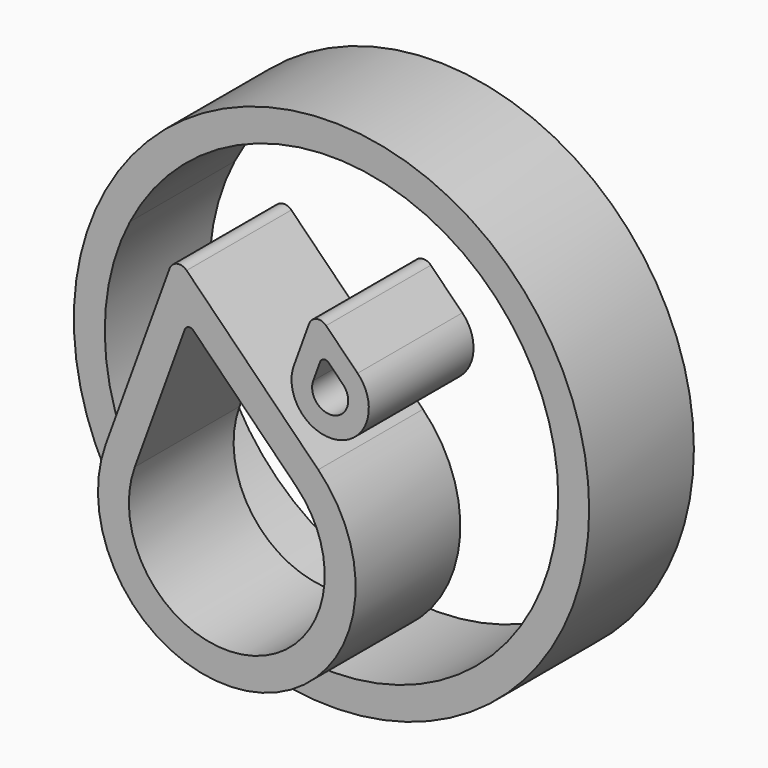
from build123d import *

# Parameters (mm, degrees)
F0_R      = 50
F1_DEPTH  = 25.4
F2_R      = 1
F3_R      = 2
F4_R      = 1
F5_R      = 2
F8_DEPTH  = 25.4
F9_R      = 1
F10_R     = 2
F11_R     = 4
F14_DEPTH = 25.4
F15_R     = 1
F15_2_R   = 1
F16_R     = 2
F16_2_R   = 2


with BuildPart() as f1:
    # F0 (on Front) → F1 (new body)
    with BuildSketch(Plane.XZ):
        Circle(F0_R)
        with BuildLine():
            ThreePointArc((-39.1111111111, 20.1574052808), (10.3708994574, 42.7603138955), (44, 0))
            ThreePointArc((44, 0), (-10.3708994574, -42.7603138955), (-39.1111111111, 20.1574052808))
        make_face(mode=Mode.SUBTRACT)
    extrude(amount=F1_DEPTH)


with BuildPart() as f1b:
    # F0 (on Front) → F1, piece 2 (new body)
    with BuildSketch(Plane.XZ):
        with BuildLine():
            ThreePointArc((0, 16.4924225025), (-16, 26.2462112512), (-32, 16.4924225025))
            Line((-32, 16.4924225025), (-30.2222222222, 15.5761768079))
            Line((-30.2222222222, 15.5761768079), (-34, 8.2462112512))
            ThreePointArc((-34, 8.2462112512), (-33.0849981905, 2.5802747153), (-30.4330181301, -2.5096238003))
            Line((-30.4330181301, -2.5096238003), (0, -43.3470204617))
            Line((0, -43.3470204617), (30.4330181301, -2.5096238003))
            ThreePointArc((30.4330181301, -2.5096238003), (25.5332732557, 23.5143709646), (0, 16.4924225025))
        make_face()
        with BuildLine():
            ThreePointArc((-28.829349449, -1.3145310168), (-31.9458736097, 6.9312531437), (-30.2222222222, 15.5761768079))
            ThreePointArc((-30.2222222222, 15.5761768079), (-12.2287638337, 23.7954163042), (0, 8.2462112512))
            ThreePointArc((0, 8.2462112512), (21.0363880319, 23.4328763095), (28.829349449, -1.3145310168))
            Line((28.829349449, -1.3145310168), (0, -40))
            Line((0, -40), (-28.829349449, -1.3145310168))
        make_face(mode=Mode.SUBTRACT)
        with BuildLine():
            Line((-30.2222222222, 15.5761768079), (-32, 16.4924225025))
            ThreePointArc((-32, 16.4924225025), (-33.4928556845, 12.4888519384), (-34, 8.2462112512))
            Line((-34, 8.2462112512), (-30.2222222222, 15.5761768079))
        make_face()
    extrude(amount=F1_DEPTH)

    # F2
    f2_edges = [f1b.edges().sort_by_distance(p)[0] for p in [
        (0, -12.7, 16.492423),
    ]]
    fillet(f2_edges, radius=F2_R)

    # F3
    f3_edges = [f1b.edges().sort_by_distance(p)[0] for p in [
        (0, -12.7, 8.246211),
    ]]
    fillet(f3_edges, radius=F3_R)

    # F4
    f4_edges = [f1b.edges().sort_by_distance(p)[0] for p in [
        (0, -12.7, -40),
    ]]
    fillet(f4_edges, radius=F4_R)

    # F5
    f5_edges = [f1b.edges().sort_by_distance(p)[0] for p in [
        (0, -12.7, -43.34702),
    ]]
    fillet(f5_edges, radius=F5_R)


with BuildPart() as f8:
    # F7 (on face) → F8 (new body)
    with BuildSketch(Plane.XZ.offset(25.4)):
        with BuildLine():
            ThreePointArc((9.5, 30.5), (0, 40), (-9.5, 30.5))
            Line((-9.5, 30.5), (-9.5, -8.9021278201))
            ThreePointArc((-9.5, -8.9021278201), (0, -40), (9.5, -8.9021278201))
            Line((9.5, -8.9021278201), (9.5, 30.5))
        make_face()
        with BuildLine():
            ThreePointArc((7.5, -10.0096189432), (0, -38), (-7.5, -10.0096189432))
            Line((-7.5, -10.0096189432), (-7.5, 30.5))
            ThreePointArc((-7.5, 30.5), (0, 38), (7.5, 30.5))
            Line((7.5, 30.5), (7.5, -10.0096189432))
        make_face(mode=Mode.SUBTRACT)
    extrude(amount=F8_DEPTH)

    # F9
    f9_edges = [f8.edges().sort_by_distance(p)[0] for p in [
        (9.5, -38.1, -8.902128),
        (-9.5, -38.1, -8.902128),
    ]]
    fillet(f9_edges, radius=F9_R)

    # F10
    f10_edges = [f8.edges().sort_by_distance(p)[0] for p in [
        (-7.5, -38.1, -10.009619),
        (7.5, -38.1, -10.009619),
    ]]
    fillet(f10_edges, radius=F10_R)


with BuildPart() as f8b:
    # F7 (on face) → F8, piece 2 (new body)
    with BuildSketch(Plane.XZ.offset(25.4)):
        Polygon((26.5, 22.5), (11.5, 15), (26.5, 7.5), align=None)
        Polygon((24.5, 10.7360679775), (15.972135955, 15), (24.5, 19.2639320225), align=None, mode=Mode.SUBTRACT)
    extrude(amount=F8_DEPTH)


with BuildPart() as f8c:
    # F7 (on face) → F8, piece 3 (new body)
    with BuildSketch(Plane.XZ.offset(25.4)):
        with BuildLine():
            Line((5.5, 15), (-5.5, 15))
            Line((-5.5, 15), (-5.5, -11.2207810106))
            ThreePointArc((-5.5, -11.2207810106), (0, -36), (5.5, -11.2207810106))
            Line((5.5, -11.2207810106), (5.5, 15))
        make_face()
    extrude(amount=F8_DEPTH)

    # F11
    f11_edges = [f8c.edges().sort_by_distance(p)[0] for p in [
        (-5.5, -38.1, -11.220781),
        (5.5, -38.1, -11.220781),
    ]]
    fillet(f11_edges, radius=F11_R)


with BuildPart() as f14:
    # F13 (on face) → F14 (new body)
    with BuildSketch(Plane.XZ.offset(25.4)):
        with BuildLine():
            Line((-10.0150942304, 34.5788647523), (-23.4923155196, -2.4494964169))
            ThreePointArc((-23.4923155196, -2.4494964169), (5.3652817168, -35.4174886526), (17.7437429675, 6.6113482023))
            Line((17.7437429675, 6.6113482023), (-10.0150942304, 34.5788647523))
        make_face()
        with BuildLine():
            Line((-7.6114716151, 23.6399372117), (13.4852446553, 2.3846246338))
            ThreePointArc((13.4852446553, 2.3846246338), (4.0776141047, -29.557291376), (-17.8541597949, -4.5016172768))
            Line((-17.8541597949, -4.5016172768), (-7.6114716151, 23.6399372117))
        make_face(mode=Mode.SUBTRACT)
    extrude(amount=F14_DEPTH)

    # F15
    f15_edges = [f14.edges().sort_by_distance(p)[0] for p in [
        (-7.611472, -38.1, 23.639937),
    ]]
    fillet(f15_edges, radius=F15_R)

    # F16
    f16_edges = [f14.edges().sort_by_distance(p)[0] for p in [
        (-10.015094, -38.1, 34.578865),
    ]]
    fillet(f16_edges, radius=F16_R)


with BuildPart() as f14b:
    # F13 (on face) → F14, piece 2 (new body)
    with BuildSketch(Plane.XZ.offset(25.4)):
        with BuildLine():
            Line((17.0536904288, 33.9583810385), (13.0105240421, 22.8498726878))
            ThreePointArc((13.0105240421, 22.8498726878), (21.667803213, 12.9594750171), (25.3813415882, 25.5681260735))
            Line((25.3813415882, 25.5681260735), (17.0536904288, 33.9583810385))
        make_face()
        with BuildLine():
            ThreePointArc((22.5423427134, 22.7503103612), (20.8093581383, 16.8662732015), (16.7692945252, 21.4817921145))
            Line((16.7692945252, 21.4817921145), (18.6561055057, 26.6657626782))
            Line((18.6561055057, 26.6657626782), (22.5423427134, 22.7503103612))
        make_face(mode=Mode.SUBTRACT)
    extrude(amount=F14_DEPTH)

    # F15#2
    f15_2_edges = [f14b.edges().sort_by_distance(p)[0] for p in [
        (18.656106, -38.1, 26.665763),
    ]]
    fillet(f15_2_edges, radius=F15_2_R)

    # F16#2
    f16_2_edges = [f14b.edges().sort_by_distance(p)[0] for p in [
        (17.05369, -38.1, 33.958381),
    ]]
    fillet(f16_2_edges, radius=F16_2_R)


solid = Compound([f1.part, f14.part, f14b.part])
